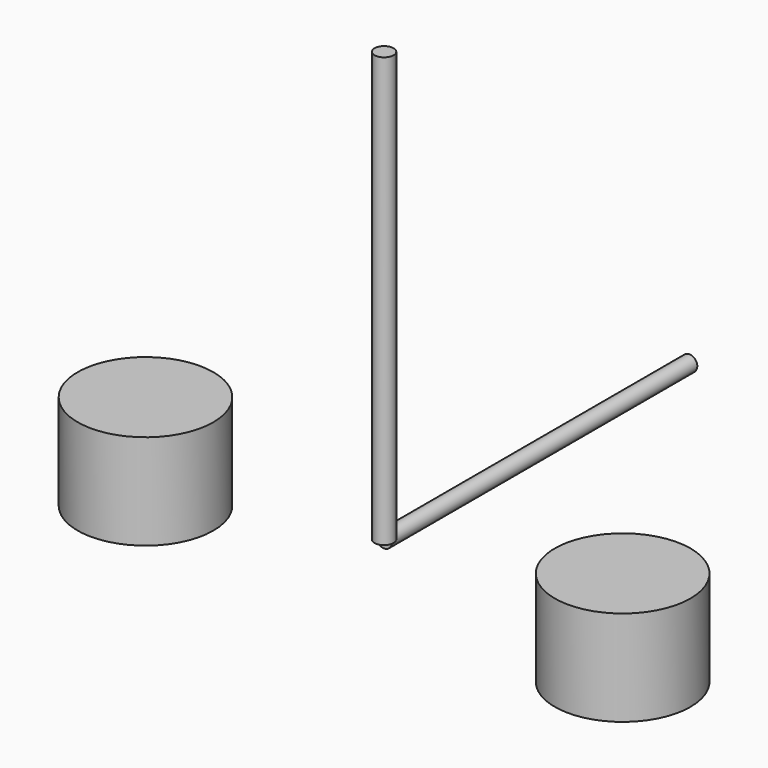
from build123d import *

# Parameters (mm, degrees)
CYLINDER136_R     = 0.2
CYLINDER136_DEPTH = 9
CYLINDER_R        = 1.422
CYLINDER_DEPTH    = 2
CYLINDER139_R     = 1.422
CYLINDER139_DEPTH = 2
CYLINDER138_R     = 0.165
CYLINDER138_DEPTH = 8


with BuildPart() as bowtienozzle:
    # Cylinder136 → Cylinder136 (new body)
    with BuildSketch(Plane.XY):
        Circle(CYLINDER136_R)
    extrude(amount=CYLINDER136_DEPTH)


with BuildPart() as mountinghole1:
    # Cylinder → Cylinder (new body)
    with BuildSketch(Plane(origin=(-5, 0, -1), x_dir=(1, 0, 0), z_dir=(0, 0, 1))):
        Circle(CYLINDER_R)
    extrude(amount=CYLINDER_DEPTH)


with BuildPart() as mountinghole2:
    # Cylinder139 → Cylinder139 (new body)
    with BuildSketch(Plane(origin=(5, 0, -1), x_dir=(1, 0, 0), z_dir=(0, 0, 1))):
        Circle(CYLINDER139_R)
    extrude(amount=CYLINDER139_DEPTH)


with BuildPart() as fusion001:
    # Cylinder138 → Cylinder138 (new body)
    with BuildSketch(Plane(origin=(0, 0, 0), x_dir=(1, 0, 0), z_dir=(0, 1, 0))):
        Circle(CYLINDER138_R)
    extrude(amount=CYLINDER138_DEPTH)

    # Fusion001: union BowTieNozzle, MountingHole1, MountingHole2
    add(bowtienozzle.part)
    add(mountinghole1.part)
    add(mountinghole2.part)


solid = fusion001.part
